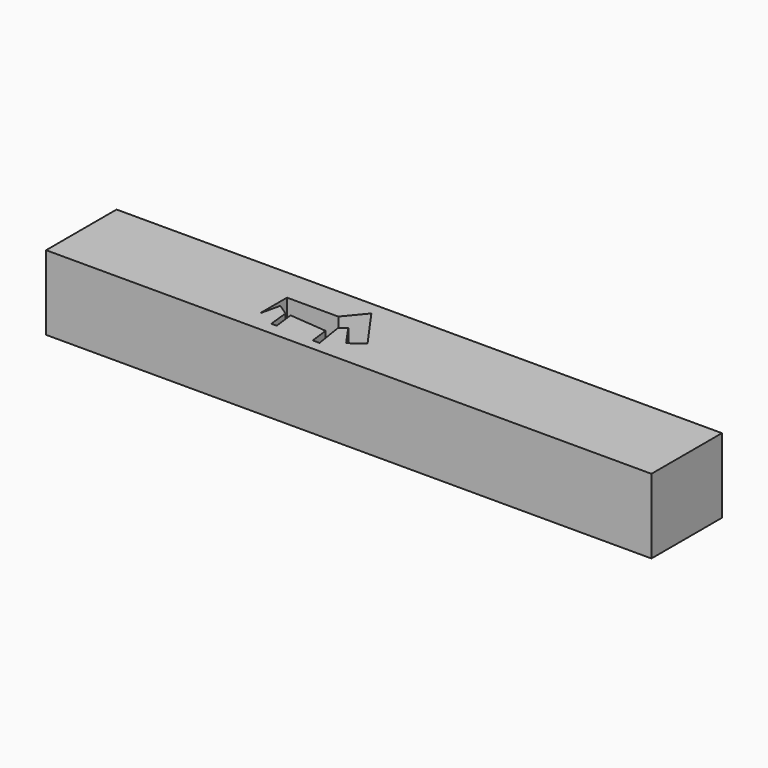
from build123d import *

# Parameters (mm, degrees)
F0_W     = 88.7035392225
F0_H     = 75.0795733184
F1_DEPTH = 609.6
F3_DEPTH = 75.0805733184


with BuildPart() as f1:
    # F0 (on Right) → F1 (new body)
    with BuildSketch(Plane.YZ):
        with Locations((10.8415391296, -13.1027223542)):
            Rectangle(F0_W, F0_H)
    extrude(amount=F1_DEPTH)

    # F2 (on face) → F3 (cut, through all)
    with BuildSketch(Plane.XY.offset(24.4370643049)):
        Polygon((250.0542104244, 21.7413976789), (198.4199732542, 21.7413976789), (198.4199732542, -12.5776519999), (203.0778974295, 7.6524470933), (214.2598032951, 0), (216.5598422289, -20.7415837795), (221.9552248716, -20.7415837795), (219.3950414658, 0), (257.3667168617, -3.4582386725), (259.7696781158, -22.5320160389), (266.5723860264, -22.5320160389), (261.9751274163, 6.5919420698), (268.5813307762, 11.1460844055), (276.2651473502, 0), (283.1545623022, -9.7264384601), (296.8862950802, 0), (266.9985592365, 42.1953424811), align=None)
    extrude(amount=-F3_DEPTH, mode=Mode.SUBTRACT)


solid = f1.part
